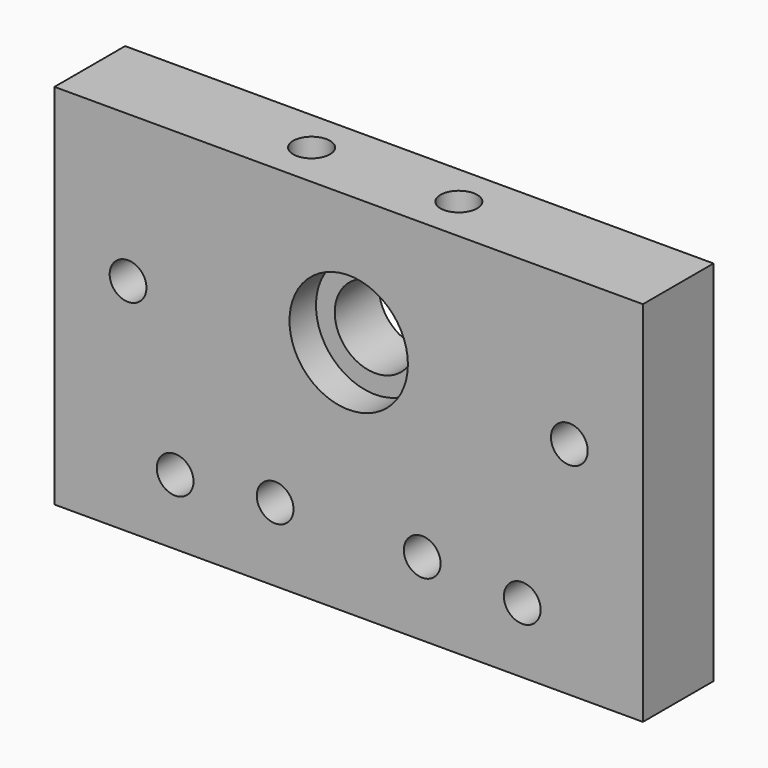
from build123d import *

# Parameters (mm, degrees)
SKETCH023_W     = 80
SKETCH023_H     = 50
SKETCH023_R     = 2.5
SKETCH023_R_2   = 5.5
PAD005_DEPTH    = 12
SKETCH024_R     = 2.5
POCKET015_DEPTH = 11
SKETCH025_R     = 8.05
POCKET016_DEPTH = 4.5
SKETCH026_R     = 4.6
SKETCH026_R_2   = 4.624594
SKETCH026_R_3   = 4.583454
SKETCH026_R_4   = 4.624604
POCKET017_DEPTH = 1.55


with BuildPart() as part:
    # Sketch023 → Pad005 (new body)
    with BuildSketch(Plane(origin=(-2, -98, 100), x_dir=(1, 0, 0), z_dir=(0, -1, 0))):
        with Locations((40, 25)):
            Rectangle(SKETCH023_W, SKETCH023_H)
        with Locations((10, 30)):
            Circle(SKETCH023_R, mode=Mode.SUBTRACT)
        with Locations((30, 10)):
            Circle(SKETCH023_R, mode=Mode.SUBTRACT)
        with Locations((16.4, 8.9)):
            Circle(SKETCH023_R, mode=Mode.SUBTRACT)
        with Locations((50, 10)):
            Circle(SKETCH023_R, mode=Mode.SUBTRACT)
        with Locations((63.6, 8.9)):
            Circle(SKETCH023_R, mode=Mode.SUBTRACT)
        with Locations((70, 30)):
            Circle(SKETCH023_R, mode=Mode.SUBTRACT)
        with Locations((40, 32.4)):
            Circle(SKETCH023_R_2, mode=Mode.SUBTRACT)
    extrude(amount=PAD005_DEPTH)

    # Sketch024 → Pocket015 (cut)
    with BuildSketch(Plane(origin=(-2, -98, 150), x_dir=(-1, 0, 0), z_dir=(0, 0, 1))):
        with Locations((-30.033846, 5.850095)):
            Circle(SKETCH024_R)
        with Locations((-50.003807, 5.788844)):
            Circle(SKETCH024_R)
    extrude(amount=-POCKET015_DEPTH, mode=Mode.SUBTRACT)

    # Sketch025 → Pocket016 (cut)
    with BuildSketch(Plane(origin=(-2, -110, 100), x_dir=(1, 0, 0), z_dir=(0, -1, 0))):
        with Locations((40, 32.4)):
            Circle(SKETCH025_R)
    extrude(amount=-POCKET016_DEPTH, mode=Mode.SUBTRACT)

    # Sketch026 → Pocket017 (cut)
    with BuildSketch(Plane(origin=(-2, -98, 100), x_dir=(1, 0, 0), z_dir=(0, 1, 0))):
        with Locations((10, -30)):
            Circle(SKETCH026_R)
        with Locations((70, -30)):
            Circle(SKETCH026_R_2)
        with Locations((30, -10)):
            Circle(SKETCH026_R_3)
        with Locations((50, -10)):
            Circle(SKETCH026_R_4)
    extrude(amount=-POCKET017_DEPTH, mode=Mode.SUBTRACT)


solid = part.part
